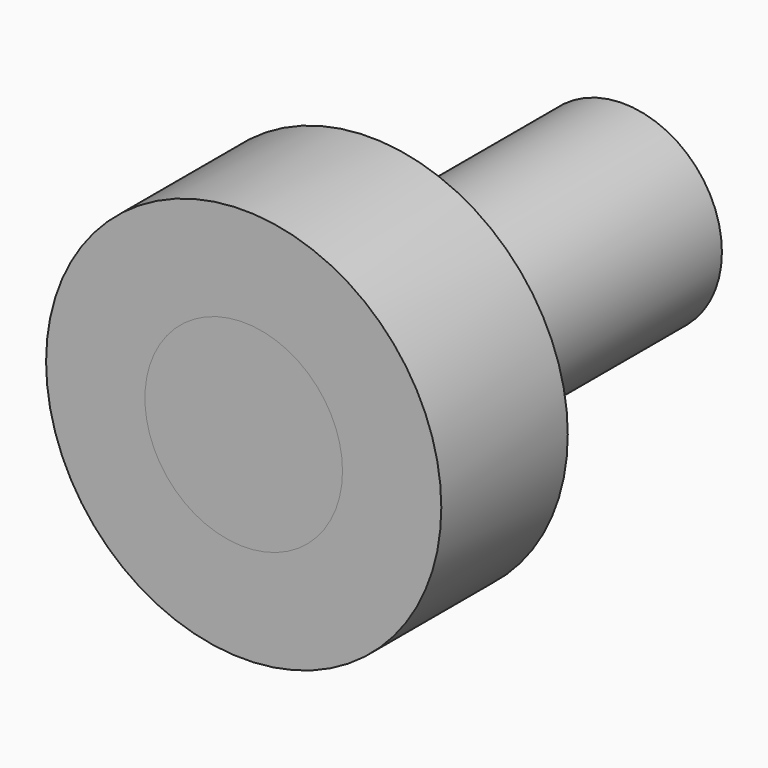
from build123d import *

# Parameters (mm, degrees)
F0_R      = 31.75
F1_DEPTH  = 101.6
F2_R      = 63.5
F2_R_2    = 31.75
F3_DEPTH  = 50.8
F1_FACE_R = 31.75
F4_DEPTH  = 50.8


with BuildPart() as f1:
    # F0 (on Front) → F1 (new body)
    with BuildSketch(Plane.XZ):
        Circle(F0_R)
    extrude(amount=F1_DEPTH)


with BuildPart() as f3:
    # F2 (on face) → F3 (new body)
    with BuildSketch(Plane.XZ.offset(101.6)):
        Circle(F2_R)
        Circle(F2_R_2, mode=Mode.SUBTRACT)
    extrude(amount=F3_DEPTH)


with BuildPart() as f4:
    # F1_face (on face) → F4 (new body)
    with BuildSketch(Plane.XZ.offset(101.6)):
        Circle(F1_FACE_R)
    extrude(amount=F4_DEPTH)


solid = Compound([f1.part, f3.part, f4.part])
